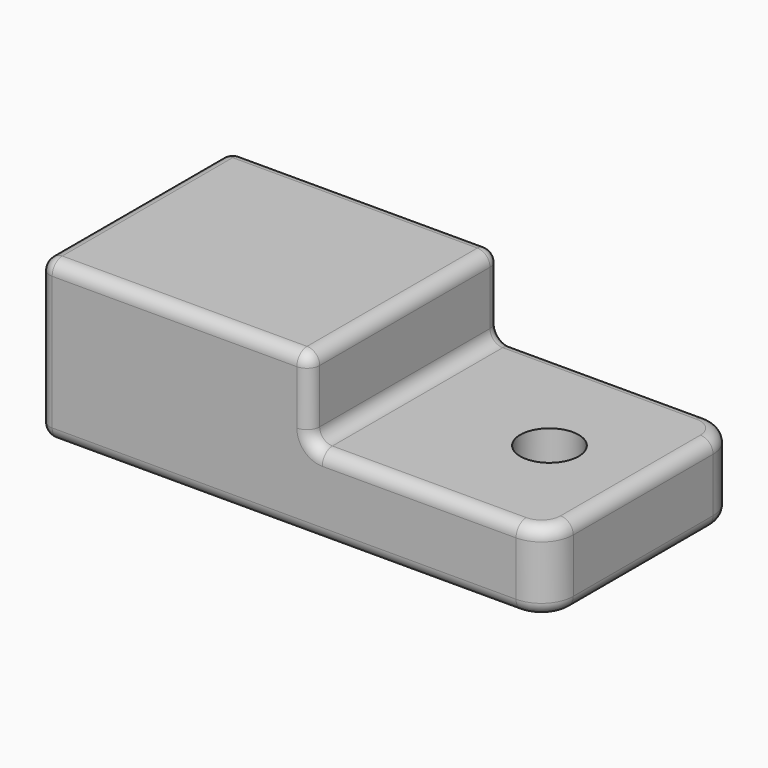
from build123d import *

# Parameters (mm, degrees)
F0_W      = 107.95
F0_H      = 95.25
F1_DEPTH  = 63.5
F0_R      = 11.66987
F2_DEPTH  = 25.4
F2_FACE_R = 11.66987
F3_DEPTH  = 6.35
F4_R      = 5.08


with BuildPart() as f1:
    # F0 (on Top) → F1 (new body)
    with BuildSketch(Plane.XY):
        with Locations((-149.225, 47.625)):
            Rectangle(F0_W, F0_H)
    extrude(amount=F1_DEPTH)

    # F0 (on Top) → F2 (join)
    with BuildSketch(Plane.XY):
        with BuildLine():
            Line((-12.7, 95.25), (-95.25, 95.25))
            Line((-95.25, 95.25), (-95.25, 0))
            Line((-95.25, 0), (-12.7, 0))
            ThreePointArc((-12.7, 0), (-3.719744, 3.719744), (0, 12.7))
            Line((0, 12.7), (0, 82.55))
            ThreePointArc((0, 82.55), (-3.719744, 91.530256), (-12.7, 95.25))
        make_face()
        with Locations((-37.450853, 47.625)):
            Circle(F0_R, mode=Mode.SUBTRACT)
    extrude(amount=F2_DEPTH)

    # F2_face (on face) → F3 (join)
    with BuildSketch(Plane(origin=(-48.494155, 47.625, 25.4), x_dir=(1, 0, 0), z_dir=(0, 0, 1))):
        with BuildLine():
            Line((35.794155, 47.625), (-46.755845, 47.625))
            Line((-46.755845, 47.625), (-46.755845, -47.625))
            Line((-46.755845, -47.625), (35.794155, -47.625))
            ThreePointArc((35.794155, -47.625), (44.774411, -43.905256), (48.494155, -34.925))
            Line((48.494155, -34.925), (48.494155, 34.925))
            ThreePointArc((48.494155, 34.925), (44.774411, 43.905256), (35.794155, 47.625))
        make_face()
        with Locations((11.043302, 0)):
            Circle(F2_FACE_R, mode=Mode.SUBTRACT)
    extrude(amount=F3_DEPTH)

    # F4
    f4_edges = [f1.edges().sort_by_distance(p)[0] for p in [
        (0, 12.7, 15.875),
        (0, 47.625, 31.75),
        (0, 82.55, 15.875),
        (0, 47.625, 0),
        (-95.25, 95.25, 47.625),
        (-95.25, 47.625, 63.5),
        (-95.25, 0, 47.625),
        (-95.25, 47.625, 31.75),
        (-149.225, 95.25, 63.5),
        (-203.2, 47.625, 63.5),
        (-149.225, 0, 63.5),
        (-203.2, 95.25, 31.75),
        (-203.2, 0, 31.75),
        (-203.2, 47.625, 0),
    ]]
    fillet(f4_edges, radius=F4_R)


solid = f1.part
